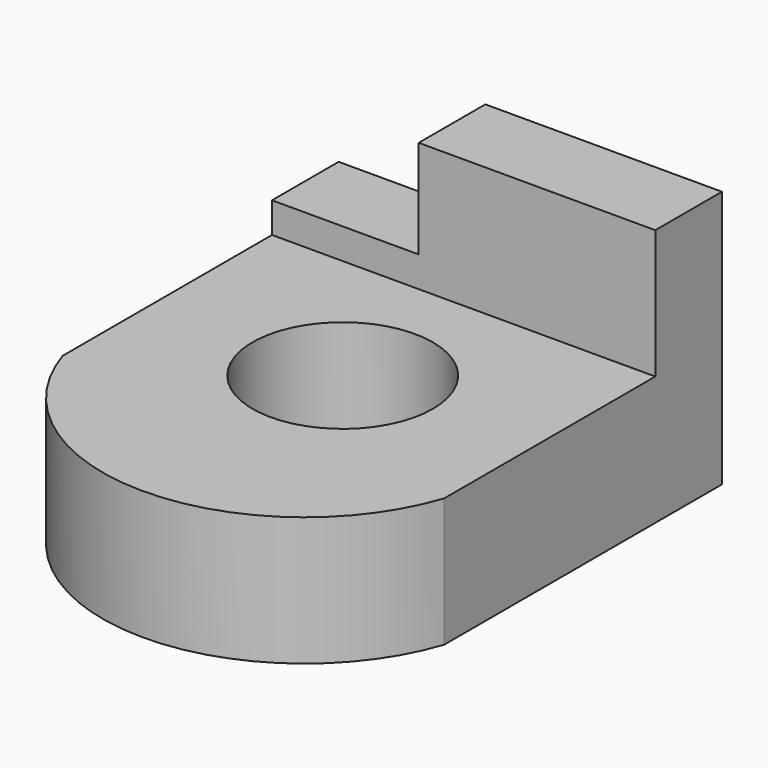
from build123d import *

# Parameters (mm, degrees)
F1_DEPTH = 12.7
F2_W     = 37.782497704
F2_H     = 8.2107339986
F3_DEPTH = 12.7
F4_W     = 14.4625585526
F4_H     = 9.6896222413
F5_DEPTH = 8.2117339986
F6_R     = 8.89
F7_DEPTH = 12.701


with BuildPart() as f1:
    # F0 (on Top) → F1 (new body)
    with BuildSketch(Plane.XY):
        with BuildLine():
            Line((18.891248852, -11.1125009134), (18.891248852, 23.1139999814))
            Line((18.891248852, 23.1139999814), (-18.891248852, 23.1139999814))
            Line((-18.891248852, 23.1139999814), (-18.891248852, -10.8902500942))
            ThreePointArc((-18.891248852, -10.8902500942), (-0.0802847481, -24.6497315476), (18.891248852, -11.1125009134))
        make_face()
    extrude(amount=F1_DEPTH)

    # F2 (on face) → F3 (join)
    with BuildSketch(Plane.XY.offset(12.7)):
        with Locations((0, 19.0086329821)):
            Rectangle(F2_W, F2_H)
    extrude(amount=F3_DEPTH)

    # F4 (on face) → F5 (cut, through all)
    with BuildSketch(Plane.XZ.offset(-14.9032659829)):
        with Locations((-11.6599695757, 20.5551888794)):
            Rectangle(F4_W, F4_H)
    extrude(amount=-F5_DEPTH, mode=Mode.SUBTRACT)

    # F6 (on face) → F7 (cut, through all)
    with BuildSketch(Plane.XY.offset(12.7)):
        Circle(F6_R)
    extrude(amount=-F7_DEPTH, mode=Mode.SUBTRACT)


solid = f1.part
